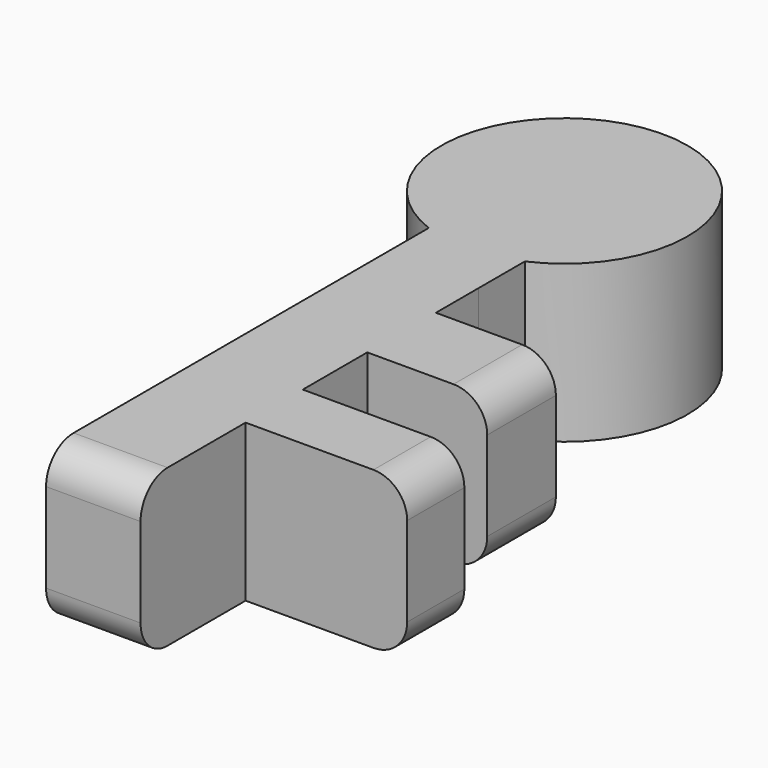
from build123d import *

# Parameters (mm, degrees)
F1_DEPTH = 23.622
F2_R     = 5.08


with BuildPart() as f1:
    # F0 (on Top) → F1 (new body)
    with BuildSketch(Plane.XY):
        with BuildLine():
            Line((16.000509, 14.004066), (16.000509, 22.72998))
            ThreePointArc((16.000509, 22.72998), (7.887729, 58.203177), (1.843651, 22.31956))
            Line((1.843651, 22.31956), (1.843651, -45.733988))
            Line((1.843651, -45.733988), (1.762765, -49.65125))
            Line((1.762765, -49.65125), (16.000544, -49.65125))
            Line((16.000544, -49.65125), (16.000544, -29.869115))
            Line((16.000544, -29.869115), (40.347772, -29.869094))
            Line((40.347772, -29.869094), (40.347763, -19.096614))
            Line((40.347763, -19.096614), (16.000538, -19.096635))
            Line((16.000538, -19.096635), (16.000544, -6.953149))
            Line((16.000544, -6.953149), (34.080159, -6.953133))
            Line((34.080159, -6.953133), (34.080148, 5.973834))
            Line((34.080148, 5.973834), (16.000516, 5.973818))
            Line((16.000516, 5.973818), (16.000509, 14.004066))
        make_face()
    extrude(amount=F1_DEPTH)

    # F2
    f2_edges = [f1.edges().sort_by_distance(p)[0] for p in [
        (40.347768, -24.482854, 23.622),
        (34.080154, -0.48965, 23.622),
        (8.881655, -49.65125, 23.622),
        (34.080154, -0.48965, 0),
        (40.347768, -24.482854, 0),
        (8.881655, -49.65125, 0),
    ]]
    fillet(f2_edges, radius=F2_R)


solid = f1.part
